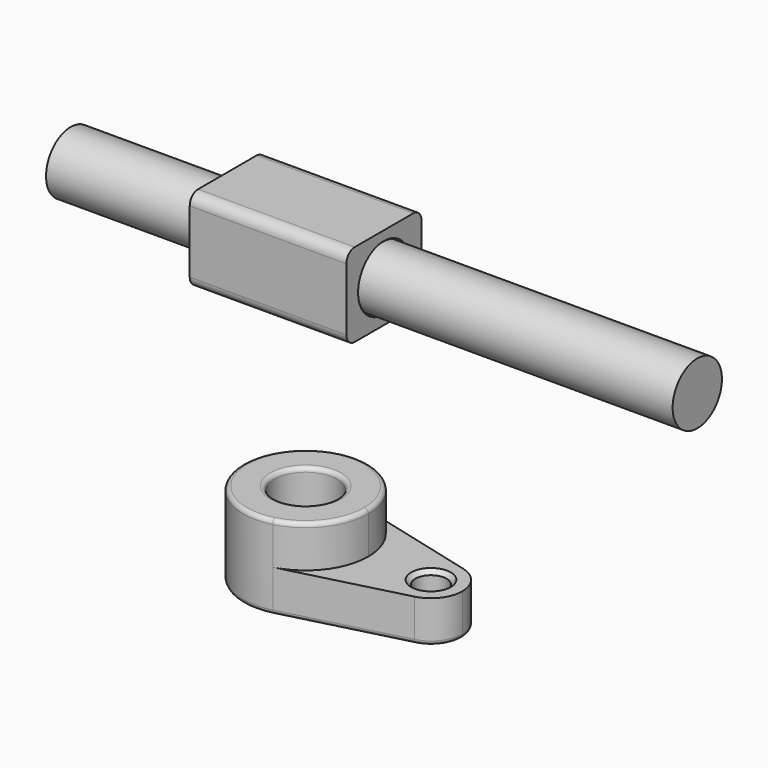
from build123d import *

# Parameters (mm, degrees)
F0_R      = 15
F0_R_2    = 7.5
F1_DEPTH  = 20
F2_DEPTH  = 20
F3_R      = 2
F4_SIZE   = 2
F5_W      = 45
F5_H      = 40
F5_R      = 15
F6_DEPTH  = 37.5
F7_SIZE   = 0.5
F8_R      = 5
F9_R      = 14.75
F10_DEPTH = 150


with BuildPart() as f1:
    # F0 (on Top) → F1 (new body)
    with BuildSketch(Plane.XY):
        with BuildLine():
            ThreePointArc((7.5, -29.047375), (23.717082, -18.371173), (30, 0))
            ThreePointArc((30, 0), (23.717082, 18.371173), (7.5, 29.047375))
            ThreePointArc((7.5, 29.047375), (-30, 0), (7.5, -29.047375))
        make_face()
        Circle(F0_R, mode=Mode.SUBTRACT)
        with BuildLine():
            ThreePointArc((7.5, 29.047375), (23.717082, 18.371173), (30, 0))
            ThreePointArc((30, 0), (23.717082, -18.371173), (7.5, -29.047375))
            Line((7.5, -29.047375), (63.75, -14.523688))
            ThreePointArc((63.75, -14.523688), (45, 0), (63.75, 14.523688))
            Line((63.75, 14.523688), (7.5, 29.047375))
        make_face()
        with BuildLine():
            ThreePointArc((75, 0), (71.858541, 9.185587), (63.75, 14.523688))
            ThreePointArc((63.75, 14.523688), (45, 0), (63.75, -14.523688))
            ThreePointArc((63.75, -14.523688), (71.858541, -9.185587), (75, 0))
        make_face()
        with Locations((60, 0)):
            Circle(F0_R_2, mode=Mode.SUBTRACT)
    extrude(amount=-F1_DEPTH)

    # F0 (on Top) → F2 (join)
    with BuildSketch(Plane.XY):
        with BuildLine():
            ThreePointArc((7.5, -29.047375), (23.717082, -18.371173), (30, 0))
            ThreePointArc((30, 0), (23.717082, 18.371173), (7.5, 29.047375))
            ThreePointArc((7.5, 29.047375), (-30, 0), (7.5, -29.047375))
        make_face()
        Circle(F0_R, mode=Mode.SUBTRACT)
    extrude(amount=F2_DEPTH)

    # F3
    f3_edges = [f1.edges().sort_by_distance(p)[0] for p in [
        (-7.5, 29.047375, 20),
        (-15, 0, 20),
        (-30, 0, -20),
        (35.625, -21.785531, -20),
        (75, 0, -20),
        (35.625, 21.785531, -20),
        (-15, 0, -20),
        (52.5, 0, -20),
    ]]
    fillet(f3_edges, radius=F3_R)

    # F4
    f4_edges = [f1.edges().sort_by_distance(p)[0] for p in [
        (52.5, 0, 0),
    ]]
    chamfer(f4_edges, length=F4_SIZE)


with BuildPart() as f6:
    # F5 (on Right) → F6 (new body, symmetric)
    with BuildSketch(Plane.YZ):
        with Locations((0, 120)):
            Rectangle(F5_W, F5_H)
        with Locations((0, 120)):
            Circle(F5_R, mode=Mode.SUBTRACT)
    extrude(amount=F6_DEPTH, both=True)

    # F7
    f7_edges = [f6.edges().sort_by_distance(p)[0] for p in [
        (-37.5, -15, 120),
        (37.5, -15, 120),
    ]]
    chamfer(f7_edges, length=F7_SIZE)

    # F8
    f8_edges = [f6.edges().sort_by_distance(p)[0] for p in [
        (0, 22.5, 140),
        (0, -22.5, 140),
        (0, 22.5, 100),
        (0, -22.5, 100),
    ]]
    fillet(f8_edges, radius=F8_R)


with BuildPart() as f10:
    # F9 (on face) → F10 (new body, symmetric)
    with BuildSketch(Plane.YZ.offset(37.5)):
        with Locations((0, 120)):
            Circle(F9_R)
    extrude(amount=F10_DEPTH, both=True)


solid = Compound([f1.part, f6.part, f10.part])
